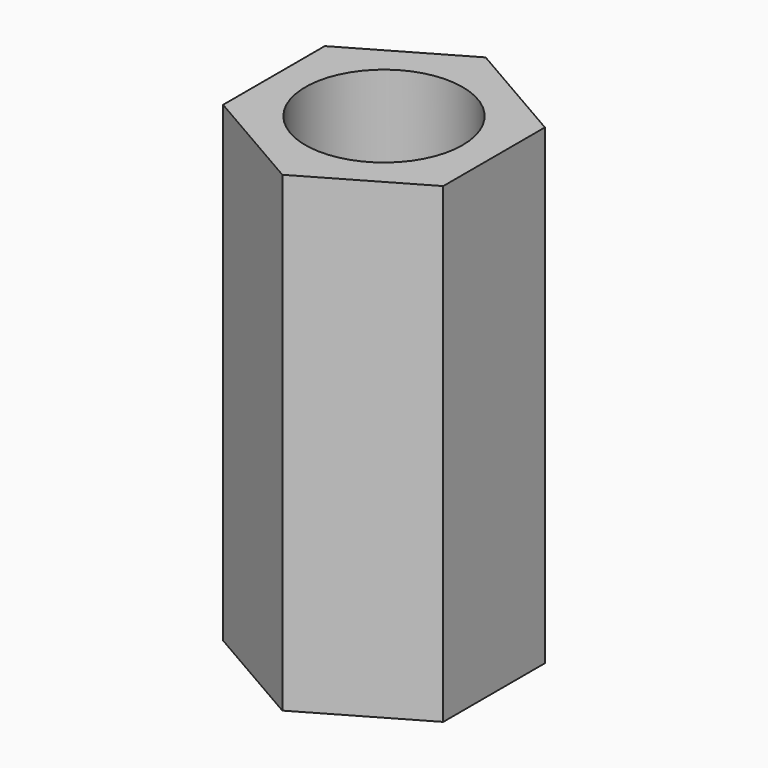
from build123d import *

# Parameters (mm, degrees)
F1_DEPTH = 15
F2_R     = 2.5
F3_DEPTH = 25


with BuildPart() as f1:
    # F0 (on Top) → F1 (new body)
    with BuildSketch(Plane.XY):
        Polygon((3.5, -2.020726), (3.5, 2.020726), (0, 4.041452), (-3.5, 2.020726), (-3.5, -2.020726), (0, -4.041452), align=None)
    extrude(amount=F1_DEPTH)

    # F2 (on face) → F3 (cut)
    with BuildSketch(Plane.XY.offset(15)):
        Circle(F2_R)
    extrude(amount=-F3_DEPTH, mode=Mode.SUBTRACT)


solid = f1.part
